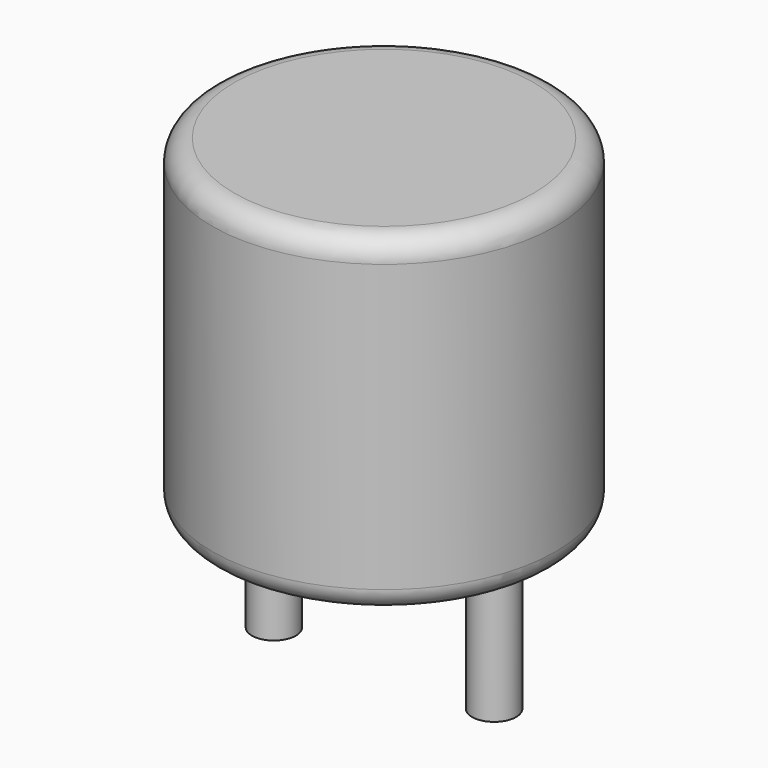
from build123d import *

# Parameters (mm, degrees)
SKETCH001_R       = 0.5
PAD001_DEPTH      = 3.75
PAD001_DEPTH_BACK = 3.5
SKETCH_R          = 3.9
PAD_DEPTH         = 7.5
FILLET_R          = 0.5


with BuildPart() as pad001:
    # Sketch001 → Pad001 (new body, two sides)
    with BuildSketch(Plane.XY.offset(0.5)) as pad001_sk:
        Circle(SKETCH001_R)
        with Locations((5, 0)):
            Circle(SKETCH001_R)
    extrude(amount=PAD001_DEPTH)
    extrude(pad001_sk.sketch, amount=-PAD001_DEPTH_BACK)


with BuildPart() as fillet_body:
    # Sketch → Pad (new body)
    with BuildSketch(Plane.XY.offset(0.1)):
        with Locations((2.5, 0)):
            Circle(SKETCH_R)
    extrude(amount=PAD_DEPTH)

    # Fillet
    fillet_edges = [fillet_body.edges().sort_by_distance(p)[0] for p in [
        (-1.4, 0, 0.1),
        (-1.4, 0, 7.6),
    ]]
    fillet(fillet_edges, radius=FILLET_R)


solid = Compound([pad001.part, fillet_body.part])
